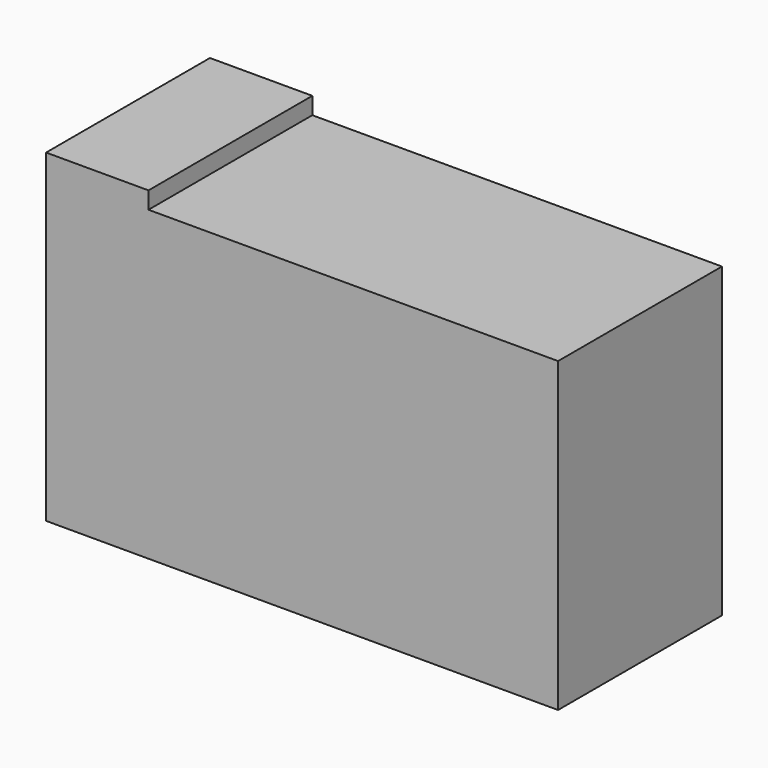
from build123d import *

# Parameters (mm, degrees)
SKETCH_W     = 150
SKETCH_H     = 60
PAD_DEPTH    = 90
SKETCH001_W  = 30
SKETCH001_H  = 60
PAD001_DEPTH = 5


with BuildPart() as part:
    # Sketch → Pad (new body)
    with BuildSketch(Plane.XY):
        Rectangle(SKETCH_W, SKETCH_H)
    extrude(amount=PAD_DEPTH)

    # Sketch001 (on Face6 of Pad) → Pad001 (join)
    with BuildSketch(Plane.XY.offset(90)):
        with Locations((-60, 0)):
            Rectangle(SKETCH001_W, SKETCH001_H)
    extrude(amount=PAD001_DEPTH)


solid = part.part
